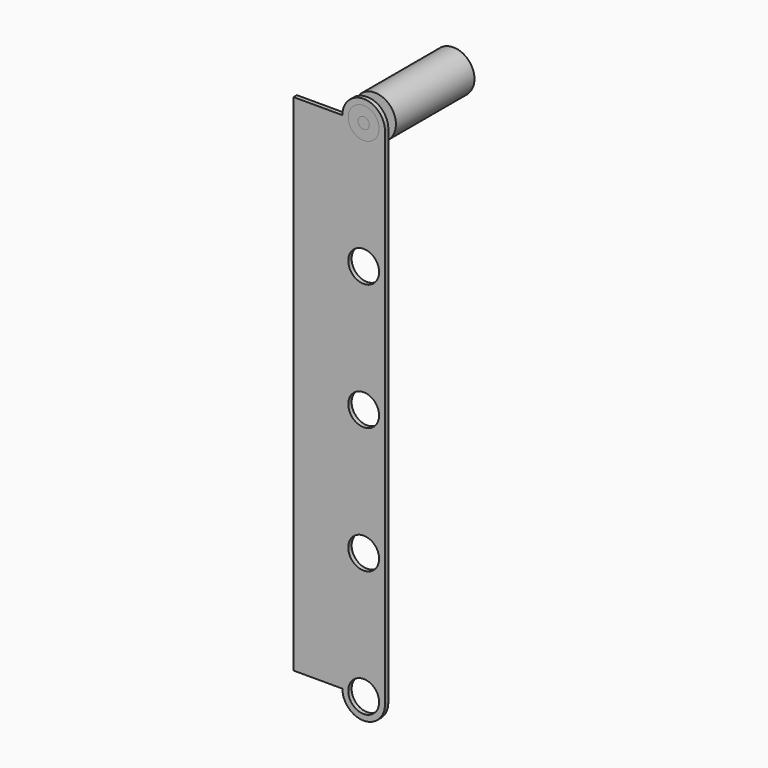
from build123d import *

# Parameters (mm, degrees)
F0_R     = 4
F1_DEPTH = 45
F3_START = -10
F2_R     = 15
F3_DEPTH = 70
F4_R     = 11
F4_R_2   = 4
F5_DEPTH = 7
F6_W     = 80
F6_H     = 410
F6_R     = 11
F7_DEPTH = 3
F8_W     = 14.8018560397
F8_H     = 360
F9_DEPTH = 25


with BuildPart() as f1:
    # F0 (on Front) → F1 (new body, symmetric)
    with BuildSketch(Plane.XZ):
        Circle(F0_R)
    extrude(amount=F1_DEPTH, both=True)

    # F2 (on face) → F3 (join)
    with BuildSketch(Plane.XZ.offset(45).offset(F3_START)):
        Circle(F2_R)
    extrude(amount=-F3_DEPTH)


with BuildPart() as f5:
    # F4 (on face) → F5 (new body)
    with BuildSketch(Plane.XZ.offset(45)):
        Circle(F4_R)
        Circle(F4_R_2, mode=Mode.SUBTRACT)
    extrude(amount=-F5_DEPTH)


with BuildPart() as f7:
    # F6 (on face) → F7 (new body)
    with BuildSketch(Plane.XZ.offset(45)):
        with Locations((-10, -176.0458183289)):
            Rectangle(F6_W, F6_H)
        with Locations((0, -360)):
            Circle(F6_R, mode=Mode.SUBTRACT)
        with Locations((0, -270)):
            Circle(F6_R, mode=Mode.SUBTRACT)
        with Locations((0, -180)):
            Circle(F6_R, mode=Mode.SUBTRACT)
        with Locations((0, -90)):
            Circle(F6_R, mode=Mode.SUBTRACT)
        Circle(F6_R, mode=Mode.SUBTRACT)
    extrude(amount=-F7_DEPTH)

    # F8 (on face) → F9 (cut)
    with BuildSketch(Plane.XZ.offset(45)):
        with BuildLine():
            ThreePointArc((-15.1981439603, 0), (0, 15.1981439603), (15.1981439603, 0))
            Line((15.1981439603, 0), (30, 0))
            Line((30, 0), (30, 46.0360497236))
            Line((30, 46.0360497236), (-84.6897289157, 56.9662563503))
            Line((-84.6897289157, 56.9662563503), (-90.118749967, 0))
            Line((-90.118749967, 0), (-15.1981439603, 0))
        make_face()
        with Locations((22.5990719802, -180)):
            Rectangle(F8_W, F8_H)
        with BuildLine():
            Line((30, -360), (15.1981439603, -360))
            ThreePointArc((15.1981439603, -360), (0, -375.1981439603), (-15.1981439603, -360))
            Line((-15.1981439603, -360), (-50, -360))
            Line((-50, -360), (-50, -381.0458183289))
            Line((-50, -381.0458183289), (30, -381.0458183289))
            Line((30, -381.0458183289), (30, -360))
        make_face()
    extrude(amount=-F9_DEPTH, mode=Mode.SUBTRACT)


solid = Compound([f1.part, f5.part, f7.part])
